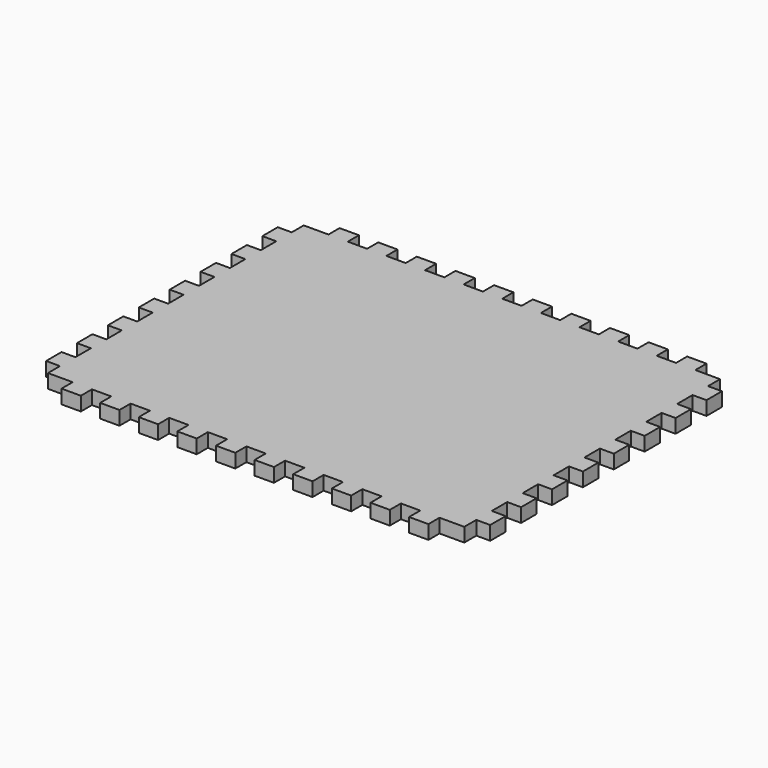
from build123d import *

# Parameters (mm, degrees)
F1_DEPTH = 9.144


with BuildPart() as f1:
    # F0 (on Top) → F1 (new body)
    with BuildSketch(Plane.XY):
        Polygon((25.4, -9.144), (9.144, -9.144), (9.144, -19.05), (0, -19.05), (0, -31.75), (9.144, -31.75), (9.144, -44.45), (0, -44.45), (0, -57.15), (9.144, -57.15), (9.144, -69.85), (0, -69.85), (0, -82.55), (9.144, -82.55), (9.144, -95.25), (0, -95.25), (0, -107.95), (9.144, -107.95), (9.144, -114.3), (9.144, -120.65), (0, -120.65), (0, -133.35), (9.144, -133.35), (9.144, -146.05), (0, -146.05), (0, -158.75), (9.144, -158.75), (9.144, -171.45), (0, -171.45), (0, -184.15), (9.144, -184.15), (9.144, -196.85), (0, -196.85), (0, -209.55), (9.144, -209.55), (9.144, -219.456), (25.4, -219.456), (25.4, -228.6), (38.1, -228.6), (38.1, -219.456), (50.8, -219.456), (50.8, -228.6), (63.5, -228.6), (63.5, -219.456), (76.2, -219.456), (76.2, -228.6), (88.9, -228.6), (88.9, -219.456), (101.6, -219.456), (101.6, -228.6), (114.3, -228.6), (114.3, -219.456), (127, -219.456), (127, -228.6), (139.7, -228.6), (139.7, -219.456), (146.05, -219.456), (152.4, -219.456), (152.4, -228.6), (165.1, -228.6), (165.1, -219.456), (177.8, -219.456), (177.8, -228.6), (190.5, -228.6), (190.5, -219.456), (203.2, -219.456), (203.2, -228.6), (215.9, -228.6), (215.9, -219.456), (228.6, -219.456), (228.6, -228.6), (241.3, -228.6), (241.3, -219.456), (254, -219.456), (254, -228.6), (266.7, -228.6), (266.7, -219.456), (282.956, -219.456), (282.956, -209.55), (292.1, -209.55), (292.1, -196.85), (282.956, -196.85), (282.956, -184.15), (292.1, -184.15), (292.1, -171.45), (282.956, -171.45), (282.956, -158.75), (292.1, -158.75), (292.1, -146.05), (282.956, -146.05), (282.956, -133.35), (292.1, -133.35), (292.1, -120.65), (282.956, -120.65), (282.956, -114.3), (282.956, -107.95), (292.1, -107.95), (292.1, -95.25), (282.956, -95.25), (282.956, -82.55), (292.1, -82.55), (292.1, -69.85), (282.956, -69.85), (282.956, -57.15), (292.1, -57.15), (292.1, -44.45), (282.956, -44.45), (282.956, -31.75), (292.1, -31.75), (292.1, -19.05), (282.956, -19.05), (282.956, -9.144), (266.7, -9.144), (266.7, 0), (254, 0), (254, -9.144), (241.3, -9.144), (241.3, 0), (228.6, 0), (228.6, -9.144), (215.9, -9.144), (215.9, 0), (203.2, 0), (203.2, -9.144), (190.5, -9.144), (190.5, 0), (177.8, 0), (177.8, -9.144), (165.1, -9.144), (165.1, 0), (152.4, 0), (152.4, -9.144), (146.05, -9.144), (139.7, -9.144), (139.7, 0), (127, 0), (127, -9.144), (114.3, -9.144), (114.3, 0), (101.6, 0), (101.6, -9.144), (88.9, -9.144), (88.9, 0), (76.2, 0), (76.2, -9.144), (63.5, -9.144), (63.5, 0), (50.8, 0), (50.8, -9.144), (38.1, -9.144), (38.1, 0), (25.4, 0), align=None)
    extrude(amount=F1_DEPTH)


solid = f1.part
